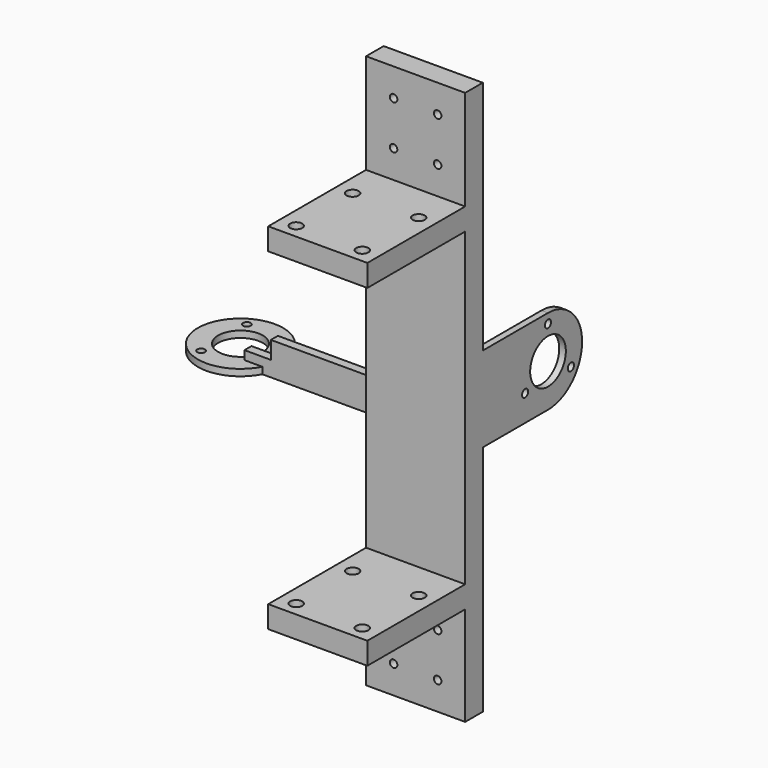
from build123d import *

# Parameters (mm, degrees)
SKETCH_W      = 45
SKETCH_H      = 161
PAD_DEPTH     = 10
SKETCH001_W   = 45
SKETCH001_H   = 10
PAD001_DEPTH  = 55.5
SKETCH002_R   = 2.75
HOLE_DEPTH    = 161.001
SKETCH003_W   = 45
SKETCH003_H   = 10
PAD002_DEPTH  = 45.4
SKETCH004_R   = 1.7
HOLE001_DEPTH = 10.001
SKETCH005_W   = 45
SKETCH005_H   = 10
PAD003_DEPTH  = 45
SKETCH006_R   = 1.7
HOLE002_DEPTH = 10.001
SKETCH007_R   = 10.125
SKETCH007_R_2 = 1.75
PAD004_DEPTH  = 3
SKETCH008_W   = 15
SKETCH008_H   = 4
PAD005_DEPTH  = 60
SKETCH009_R   = 19.35
SKETCH009_R_2 = 10.125
SKETCH009_R_3 = 1.75
PAD006_DEPTH  = 3
SKETCH010_W   = 12
SKETCH010_H   = 4
POCKET_DEPTH  = 8
FILLET_R      = 5


with BuildPart() as part:
    # Sketch → Pad (new body)
    with BuildSketch(Plane.XZ):
        with Locations((-22.5, 80.5)):
            Rectangle(SKETCH_W, SKETCH_H)
    extrude(amount=PAD_DEPTH)

    # Sketch001 (on Face6 of Pad) → Pad001 (join)
    with BuildSketch(Plane.XZ.offset(10)):
        with Locations((-22.5, 156)):
            Rectangle(SKETCH001_W, SKETCH001_H)
        with Locations((-22.5, 5)):
            Rectangle(SKETCH001_W, SKETCH001_H)
    extrude(amount=PAD001_DEPTH)

    # Sketch002 (on Face9 of Pad001) → Hole (cut, through all)
    with BuildSketch(Plane(origin=(0, 0, 161), x_dir=(-1, 0, 0), z_dir=(0, 0, 1))):
        with Locations((7.5, 59)):
            Circle(SKETCH002_R)
        with Locations((37.5, 59)):
            Circle(SKETCH002_R)
        with Locations((7.5, 27)):
            Circle(SKETCH002_R)
        with Locations((37.5, 27)):
            Circle(SKETCH002_R)
    extrude(amount=-HOLE_DEPTH, mode=Mode.SUBTRACT)

    # Sketch003 (on Face3 of Hole) → Pad002 (join)
    with BuildSketch(Plane(origin=(0, 0, 161), x_dir=(-1, 0, 0), z_dir=(0, 0, 1))):
        with Locations((22.5, 5)):
            Rectangle(SKETCH003_W, SKETCH003_H)
    extrude(amount=PAD002_DEPTH)

    # Sketch004 (on Face12 of Pad002) → Hole001 (cut, through all)
    with BuildSketch(Plane.XZ.offset(10)):
        with Locations((-32.5, 193.7)):
            Circle(SKETCH004_R)
        with Locations((-12.5, 193.7)):
            Circle(SKETCH004_R)
        with Locations((-32.5, 173.7)):
            Circle(SKETCH004_R)
        with Locations((-12.5, 173.7)):
            Circle(SKETCH004_R)
    extrude(amount=-HOLE001_DEPTH, mode=Mode.SUBTRACT)

    # Sketch005 (on Face16 of Hole001) → Pad003 (join)
    with BuildSketch(Plane(origin=(0, 0, 0), x_dir=(1, 0, 0), z_dir=(0, 0, -1))):
        with Locations((-22.5, 5)):
            Rectangle(SKETCH005_W, SKETCH005_H)
    extrude(amount=PAD003_DEPTH)

    # Sketch006 (on Face22 of Pad003) → Hole002 (cut, through all)
    with BuildSketch(Plane.XZ.offset(10)):
        with Locations((-32.5, -12.3)):
            Circle(SKETCH006_R)
        with Locations((-12.5, -12.3)):
            Circle(SKETCH006_R)
        with Locations((-32.5, -32.3)):
            Circle(SKETCH006_R)
        with Locations((-12.5, -32.3)):
            Circle(SKETCH006_R)
    extrude(amount=-HOLE002_DEPTH, mode=Mode.SUBTRACT)

    # Sketch007 (on Face2 of Hole002) → Pad004 (join)
    with BuildSketch(Plane(origin=(0, 37, 80), x_dir=(0, 0, -1), z_dir=(1, 0, 0))):
        with BuildLine():
            ThreePointArc((19.35, -3e-06), (0, 19.35), (-19.35, -3e-06))
            Line((-19.35, -3e-06), (-19.35, -37.000003))
            Line((-19.35, -37.000003), (19.35, -37.000003))
            Line((19.35, -37.000003), (19.35, -3e-06))
        make_face()
        Circle(SKETCH007_R, mode=Mode.SUBTRACT)
        with Locations((7.500003, 12.990379)):
            Circle(SKETCH007_R_2, mode=Mode.SUBTRACT)
        with Locations((-15, 5e-06)):
            Circle(SKETCH007_R_2, mode=Mode.SUBTRACT)
        with Locations((7.499994, -12.990384)):
            Circle(SKETCH007_R_2, mode=Mode.SUBTRACT)
    extrude(amount=-PAD004_DEPTH)

    # Sketch008 (on Face3 of Pad004) → Pad005 (join)
    with BuildSketch(Plane(origin=(-45, 0, 0), x_dir=(0, 0, -1), z_dir=(-1, 0, 0))):
        with Locations((-67.5, 2)):
            Rectangle(SKETCH008_W, SKETCH008_H)
    extrude(amount=PAD005_DEPTH)

    # Sketch009 (on Face25 of Pad005) → Pad006 (join)
    with BuildSketch(Plane(origin=(0, 0, 60), x_dir=(1, 0, 0), z_dir=(0, 0, -1))):
        with Locations((-114, -5)):
            Circle(SKETCH009_R)
        with Locations((-114, -5)):
            Circle(SKETCH009_R_2, mode=Mode.SUBTRACT)
        with Locations((-121.499999, 7.990382)):
            Circle(SKETCH009_R_3, mode=Mode.SUBTRACT)
        with Locations((-121.499999, -17.990382)):
            Circle(SKETCH009_R_3, mode=Mode.SUBTRACT)
        with Locations((-99, -5)):
            Circle(SKETCH009_R_3, mode=Mode.SUBTRACT)
    extrude(amount=-PAD006_DEPTH)

    # Sketch010 (on Face27 of Pad006) → Pocket (cut)
    with BuildSketch(Plane(origin=(0, 0, 75), x_dir=(-1, 0, 0), z_dir=(0, 0, 1))):
        with Locations((99, 2)):
            Rectangle(SKETCH010_W, SKETCH010_H)
    extrude(amount=-POCKET_DEPTH, mode=Mode.SUBTRACT)

    # Fillet
    fillet_edges = [part.edges().sort_by_distance(p)[0] for p in [
        (-45, -4, 67.5),
        (-3, -3e-06, 80),
    ]]
    fillet(fillet_edges, radius=FILLET_R)


solid = part.part
